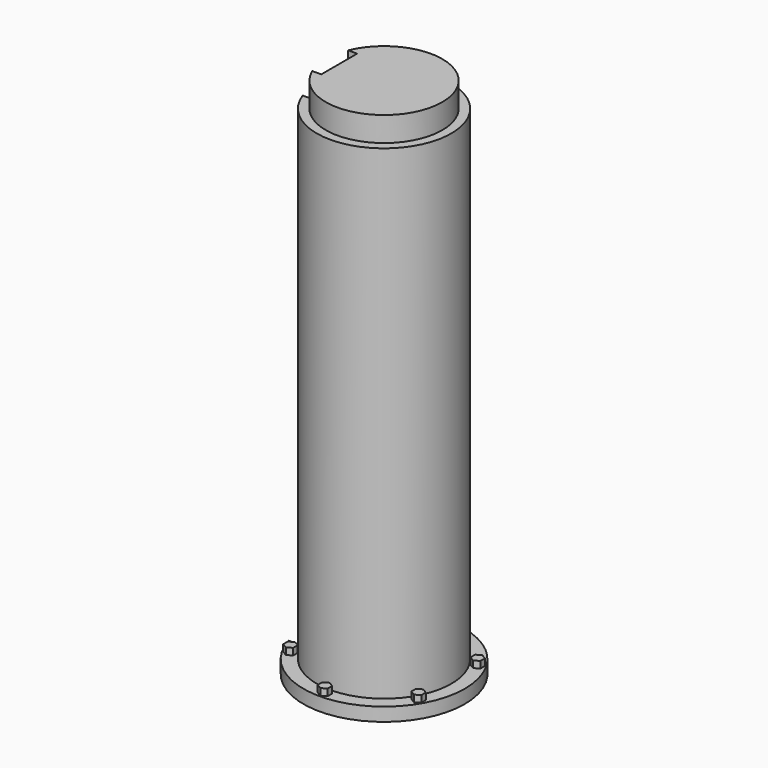
from build123d import *

# Parameters (mm, degrees)
SKETCH_R           = 18
PAD_DEPTH          = 3
SKETCH001_R        = 15
PAD001_DEPTH       = 108
SKETCH002_R        = 9.5
PAD002_DEPTH       = 2.5
SKETCH003_R        = 13
PAD003_DEPTH       = 5.5
PAD004_DEPTH       = 1.5
POLARPATTERN_COUNT = 6
SKETCH009_W        = 8
SKETCH009_H        = 10
POCKET_DEPTH       = 118


with BuildPart() as part:
    # Sketch → Pad (new body)
    with BuildSketch(Plane.XY):
        Circle(SKETCH_R)
    extrude(amount=PAD_DEPTH)

    # Sketch001 (on Face3 of Pad) → Pad001 (join)
    with BuildSketch(Plane.XY.offset(3)):
        Circle(SKETCH001_R)
    extrude(amount=PAD001_DEPTH)

    # Sketch002 (on Face2 of Pad001) → Pad002 (join)
    with BuildSketch(Plane(origin=(0, 0, 0), x_dir=(1, 0, 0), z_dir=(0, 0, -1))):
        Circle(SKETCH002_R)
    extrude(amount=PAD002_DEPTH)

    # Sketch003 (on Face7 of Pad002) → Pad003 (join)
    with BuildSketch(Plane.XY.offset(111)):
        Circle(SKETCH003_R)
    extrude(amount=PAD003_DEPTH)

    # Sketch008 (on Face3 of Pad003) → Pad004 (join)
    with BuildSketch(Plane.XY.offset(3)):
        Polygon((-1.11579, 17.121659), (-0.012041, 17.758909), (1.091708, 17.121659), (1.091708, 15.84716), (-0.012041, 15.209911), (-1.11579, 15.84716), align=None)
    pad004 = extrude(amount=PAD004_DEPTH)

    # PolarPattern: Pad004 ×6 about axis
    polarpattern_axis = Axis((0, 0, 3), (0, 0, 1))
    for i in range(1, POLARPATTERN_COUNT):
        add(pad004.rotate(polarpattern_axis, i * 360 / POLARPATTERN_COUNT))

    # Sketch009 (on Face2 of PolarPattern) → Pocket (cut)
    with BuildSketch(Plane(origin=(0, 0, 0), x_dir=(1, 0, 0), z_dir=(0, 0, -1))):
        with Locations((-14, 0)):
            Rectangle(SKETCH009_W, SKETCH009_H)
    extrude(amount=-POCKET_DEPTH, mode=Mode.SUBTRACT)


solid = part.part
